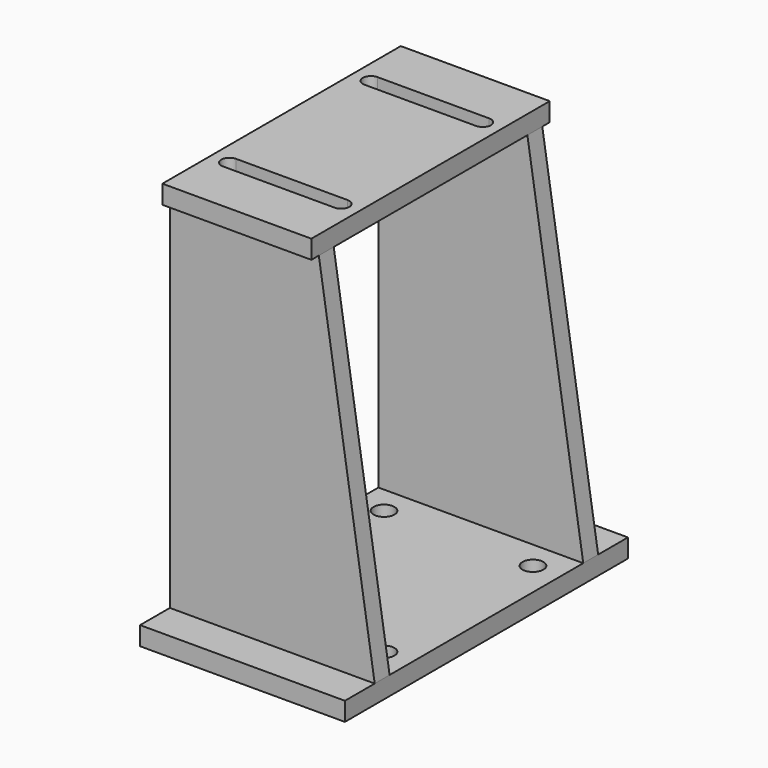
from build123d import *

# Parameters (mm, degrees)
F0_W     = 139.7
F0_H     = 241.3
F0_R     = 7.14375
F1_DEPTH = 12.7
F3_W     = 101.6
F3_H     = 203.2
F4_DEPTH = 12.7
F5_W     = 139.7
F5_H     = 12.7
F6_DEPTH = 244.602
F9_DEPTH = 215.901


with BuildPart() as f1:
    # F0 (on Top) → F1 (new body)
    with BuildSketch(Plane.XY):
        Rectangle(F0_W, F0_H)
        with Locations((-50.8, -63.5)):
            Circle(F0_R, mode=Mode.SUBTRACT)
        with Locations((50.8, -63.5)):
            Circle(F0_R, mode=Mode.SUBTRACT)
        with Locations((-50.8, 63.5)):
            Circle(F0_R, mode=Mode.SUBTRACT)
        with Locations((50.8, 63.5)):
            Circle(F0_R, mode=Mode.SUBTRACT)
    extrude(amount=F1_DEPTH)


with BuildPart() as f4:
    # F3 (on offset) → F4 (new body)
    with BuildSketch(Plane.XY.offset(270.002)):
        with Locations((-19.05, 0)):
            Rectangle(F3_W, F3_H)
        with BuildLine():
            ThreePointArc((-57.15, -65.913), (-62.738, -60.325), (-57.15, -54.737))
            Line((-57.15, -54.737), (19.05, -54.737))
            ThreePointArc((19.05, -54.737), (24.638, -60.325), (19.05, -65.913))
            Line((19.05, -65.913), (-57.15, -65.913))
        make_face(mode=Mode.SUBTRACT)
        with BuildLine():
            Line((19.05, 54.737), (-57.15, 54.737))
            ThreePointArc((-57.15, 54.737), (-62.738, 60.325), (-57.15, 65.913))
            Line((-57.15, 65.913), (19.05, 65.913))
            ThreePointArc((19.05, 65.913), (24.638, 60.325), (19.05, 54.737))
        make_face(mode=Mode.SUBTRACT)
    extrude(amount=-F4_DEPTH)


with BuildPart() as f6:
    # F5 (on face) → F6 (new body, through all)
    with BuildSketch(Plane.XY.offset(12.7)):
        with Locations((0, 88.9)):
            Rectangle(F5_W, F5_H)
    extrude(amount=F6_DEPTH)


with BuildPart() as f6b:
    # F5 (on face) → F6, piece 2 (new body, through all)
    with BuildSketch(Plane.XY.offset(12.7)):
        with Locations((0, -88.9)):
            Rectangle(F5_W, F5_H)
    extrude(amount=F6_DEPTH)


with BuildPart() as f1_1:
    add(f1.part)

    # F7: union F6b, F6, F4
    add(f6b.part)
    add(f6.part)
    add(f4.part)

    # F8 (on face) → F9 (cut, through all)
    with BuildSketch(Plane.XZ.offset(95.25)):
        Polygon((69.85, 257.302), (31.75, 257.302), (69.85, 12.7), align=None)
    extrude(amount=-F9_DEPTH, mode=Mode.SUBTRACT)


solid = f1_1.part
